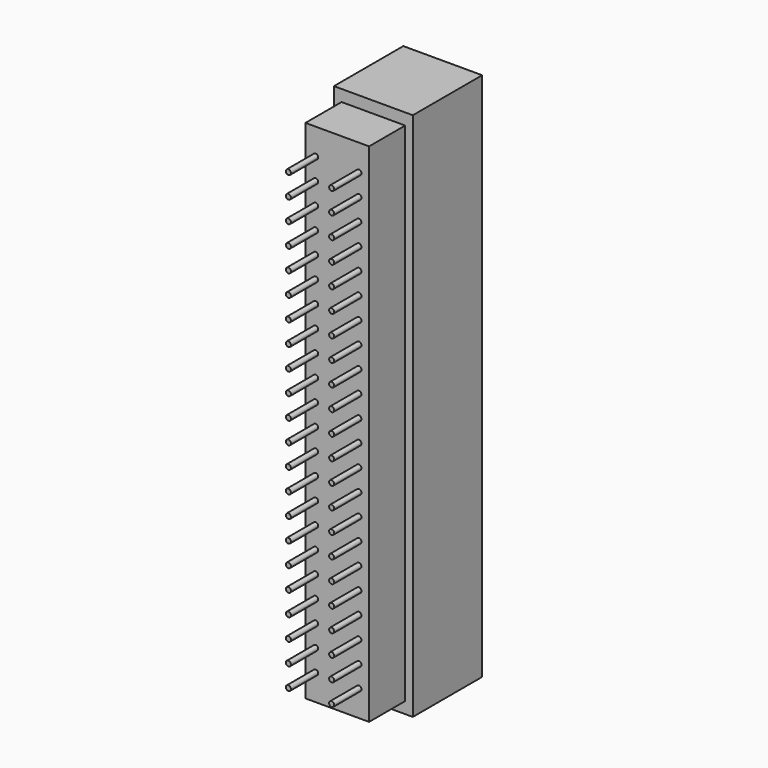
from build123d import *

# Parameters (mm, degrees)
SKETCH001_W           = 9.26
SKETCH001_H           = 10.18
EXTRUDE001_DEPTH      = 1.355
EXTRUDE001_DEPTH_BACK = 0.3
SKETCH002_W           = 9.26
SKETCH002_H           = 10.18
EXTRUDE002_DEPTH      = 1.35
EXTRUDE002_DEPTH_BACK = 0.3
SKETCH003_R           = 0.3
EXTRUDE003_DEPTH      = 4
EXTRUDE_DEPTH         = 59.5


with BuildPart() as extrude001:
    # Sketch001 (on Face14 of Extrude) → Extrude001 (new body, two sides)
    with BuildSketch(Plane.XY.offset(59.5)) as extrude001_sk:
        with Locations((0, 10.39)):
            Rectangle(SKETCH001_W, SKETCH001_H)
    extrude(amount=EXTRUDE001_DEPTH)
    extrude(extrude001_sk.sketch, amount=-EXTRUDE001_DEPTH_BACK)


with BuildPart() as extrude002:
    # Sketch002 (on Face13 of Extrude) → Extrude002 (new body, two sides)
    with BuildSketch(Plane(origin=(0, 0, 0), x_dir=(1, 0, 0), z_dir=(0, 0, -1))) as extrude002_sk:
        with Locations((0, -10.39)):
            Rectangle(SKETCH002_W, SKETCH002_H)
    extrude(amount=EXTRUDE002_DEPTH)
    extrude(extrude002_sk.sketch, amount=-EXTRUDE002_DEPTH_BACK)


with BuildPart() as extrude003:
    # Sketch003 (on Face4 of Extrude) → Extrude003 (new body)
    with BuildSketch(Plane.XZ):
        with Locations((-2.54, 56.42)):
            Circle(SKETCH003_R)
        with Locations((-2.54, 53.88)):
            Circle(SKETCH003_R)
        with Locations((-2.54, 51.34)):
            Circle(SKETCH003_R)
        with Locations((-2.54, 48.8)):
            Circle(SKETCH003_R)
        with Locations((-2.54, 46.26)):
            Circle(SKETCH003_R)
        with Locations((-2.54, 43.72)):
            Circle(SKETCH003_R)
        with Locations((-2.54, 41.18)):
            Circle(SKETCH003_R)
        with Locations((-2.54, 38.64)):
            Circle(SKETCH003_R)
        with Locations((-2.54, 36.1)):
            Circle(SKETCH003_R)
        with Locations((-2.54, 33.56)):
            Circle(SKETCH003_R)
        with Locations((-2.54, 31.02)):
            Circle(SKETCH003_R)
        with Locations((-2.54, 28.48)):
            Circle(SKETCH003_R)
        with Locations((-2.54, 25.94)):
            Circle(SKETCH003_R)
        with Locations((-2.54, 23.4)):
            Circle(SKETCH003_R)
        with Locations((2.54, 23.4)):
            Circle(SKETCH003_R)
        with Locations((2.54, 25.94)):
            Circle(SKETCH003_R)
        with Locations((2.54, 28.48)):
            Circle(SKETCH003_R)
        with Locations((2.54, 31.02)):
            Circle(SKETCH003_R)
        with Locations((2.54, 33.56)):
            Circle(SKETCH003_R)
        with Locations((2.54, 36.1)):
            Circle(SKETCH003_R)
        with Locations((2.54, 38.64)):
            Circle(SKETCH003_R)
        with Locations((2.54, 41.18)):
            Circle(SKETCH003_R)
        with Locations((2.54, 43.72)):
            Circle(SKETCH003_R)
        with Locations((2.54, 46.26)):
            Circle(SKETCH003_R)
        with Locations((2.54, 48.8)):
            Circle(SKETCH003_R)
        with Locations((2.54, 51.34)):
            Circle(SKETCH003_R)
        with Locations((2.54, 53.88)):
            Circle(SKETCH003_R)
        with Locations((2.54, 56.42)):
            Circle(SKETCH003_R)
        with Locations((2.54, 10.7)):
            Circle(SKETCH003_R)
        with Locations((2.54, 13.24)):
            Circle(SKETCH003_R)
        with Locations((2.54, 15.78)):
            Circle(SKETCH003_R)
        with Locations((2.54, 18.32)):
            Circle(SKETCH003_R)
        with Locations((2.54, 20.86)):
            Circle(SKETCH003_R)
        with Locations((2.54, 3.08)):
            Circle(SKETCH003_R)
        with Locations((2.54, 5.62)):
            Circle(SKETCH003_R)
        with Locations((2.54, 8.16)):
            Circle(SKETCH003_R)
        with Locations((-2.54, 10.7)):
            Circle(SKETCH003_R)
        with Locations((-2.54, 13.24)):
            Circle(SKETCH003_R)
        with Locations((-2.54, 15.78)):
            Circle(SKETCH003_R)
        with Locations((-2.54, 18.32)):
            Circle(SKETCH003_R)
        with Locations((-2.54, 20.86)):
            Circle(SKETCH003_R)
        with Locations((-2.54, 3.08)):
            Circle(SKETCH003_R)
        with Locations((-2.54, 5.62)):
            Circle(SKETCH003_R)
        with Locations((-2.54, 8.16)):
            Circle(SKETCH003_R)
    extrude(amount=EXTRUDE003_DEPTH)


with BuildPart() as fusion:
    # Sketch → Extrude (new body)
    with BuildSketch(Plane.XY):
        Polygon((-4.63, 15.48), (-4.63, 5.3), (-3.735, 5.3), (-3.735, 0), (3.735, 0), (3.735, 5.3), (4.63, 5.3), (4.63, 15.48), (1.17, 15.48), (1.17, 8.6), (-1.17, 8.6), (-1.17, 15.48), align=None)
    extrude(amount=EXTRUDE_DEPTH)

    # Fusion: union Extrude001, Extrude002, Extrude003
    add(extrude001.part)
    add(extrude002.part)
    add(extrude003.part)


solid = fusion.part
